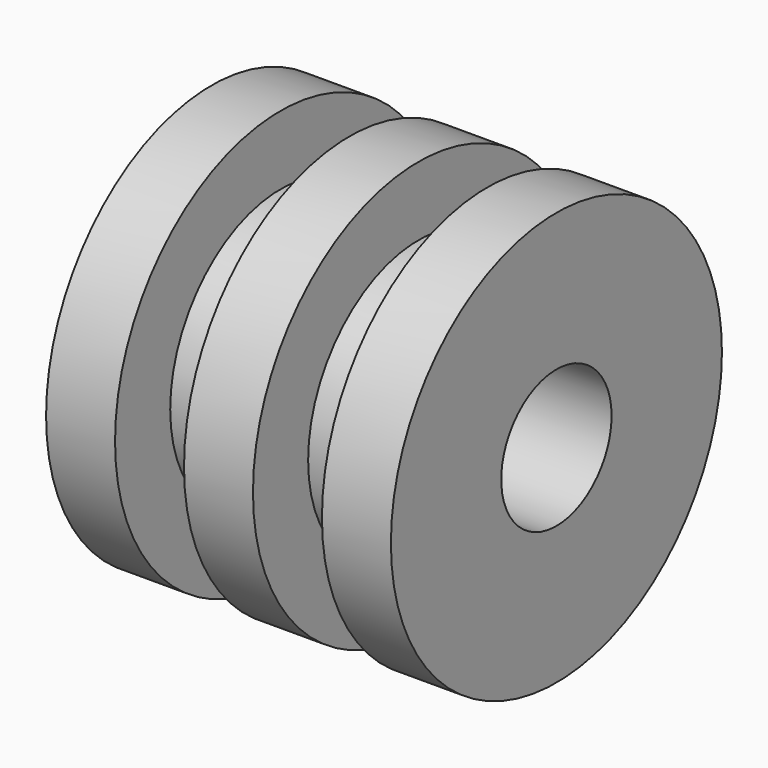
from build123d import *

# Parameters (mm, degrees)
F2_R     = 10
F3_DEPTH = 50


with BuildPart() as f1:
    # F0 (on Top) → F1 (revolve)
    with BuildSketch(Plane.XY):
        Polygon((15, -15), (25, -15), (25, 15), (-25, 15), (-25, -15), (-15, -15), (-15, -5), (-5, -5), (-5, -15), (5, -15), (5, -5), (15, -5), align=None)
    revolve(axis=Axis((0, 15, 0), (-1, 0, 0)))

    # F2 (on face) → F3 (cut)
    with BuildSketch(Plane.YZ.offset(25)):
        with Locations((15, 0)):
            Circle(F2_R)
    extrude(amount=-F3_DEPTH, mode=Mode.SUBTRACT)


solid = f1.part
